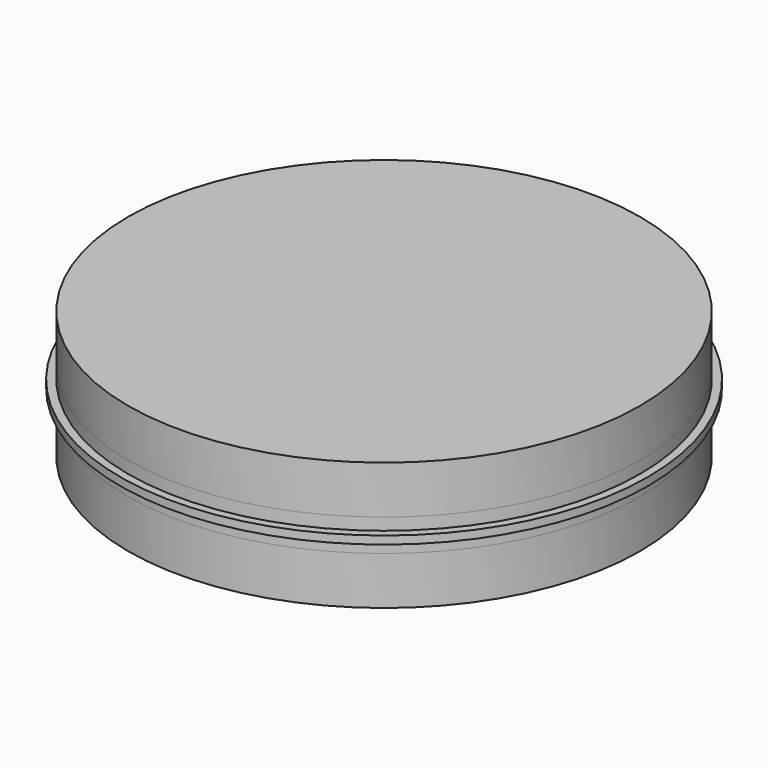
from build123d import *

# Parameters (mm, degrees)
F0_R      = 16
F1_DEPTH  = 1
F0_R_2    = 16.5
F2_DEPTH  = 0.25
F3_R      = 16
F4_DEPTH  = 3
F5_R      = 16
F6_DEPTH  = 3
F8_DEPTH  = 3.001
F9_DEPTH  = 2.75
F7_R      = 0.25
F10_DEPTH = 3.001
F11_DEPTH = 2.5
F7_R_2    = 1.095
F12_DEPTH = 3.001
F13_DEPTH = 1.8
F14_DEPTH = 2.75
F15_DEPTH = 3.001
F16_DEPTH = 2.5


with BuildPart() as f1:
    # F0 (on Top) → F1 (new body, symmetric)
    with BuildSketch(Plane.XY):
        Circle(F0_R)
    extrude(amount=F1_DEPTH, both=True)

    # F0 (on Top) → F2 (join, symmetric)
    with BuildSketch(Plane.XY):
        Circle(F0_R_2)
        Circle(F0_R, mode=Mode.SUBTRACT)
    extrude(amount=F2_DEPTH, both=True)


with BuildPart() as f4:
    # F3 (on face) → F4 (new body)
    with BuildSketch(Plane.XY.offset(1)):
        Circle(F3_R)
    extrude(amount=F4_DEPTH)


with BuildPart() as f6:
    # F5 (on face) → F6 (new body)
    with BuildSketch(Plane(origin=(0, 0, -1), x_dir=(1, 0, 0), z_dir=(0, 0, -1))):
        Circle(F5_R)
    extrude(amount=F6_DEPTH)

    # F7 (on face) → F8 (cut, through all)
    with BuildSketch(Plane.XY.offset(-1)):
        with BuildLine():
            ThreePointArc((1.6671203117, -4.3639705905), (1.906317634, -4.3471335232), (2.0213153258, -4.13671875))
            ThreePointArc((2.0213153258, -4.13671875), (1.9089714055, -3.9280304568), (1.6729088959, -3.9069010515))
            ThreePointArc((1.6729088959, -3.9069010515), (1.5213353723, -4.133552864), (1.6671203117, -4.3639705905))
        make_face()
    extrude(amount=-F8_DEPTH, mode=Mode.SUBTRACT)

    # F7 (on face) → F9 (cut)
    with BuildSketch(Plane.XY.offset(-1)):
        with BuildLine():
            ThreePointArc((1.6671203117, -4.3639705905), (1.5213353723, -4.133552864), (1.6729088959, -3.9069010515))
            ThreePointArc((1.6729088959, -3.9069010515), (1.3446888601, -4.0316636603), (1.0072900172, -4.12890625))
            ThreePointArc((1.0072900172, -4.12890625), (1.3423604072, -4.2319675509), (1.6671203117, -4.3639705905))
        make_face()
        with BuildLine():
            ThreePointArc((1.6729088959, -3.9069010515), (1.9089714055, -3.9280304568), (2.0213153258, -4.13671875))
            ThreePointArc((2.0213153258, -4.13671875), (1.906317634, -4.3471335232), (1.6671203117, -4.3639705905))
            ThreePointArc((1.6671203117, -4.3639705905), (3.2190154397, -5.6255654149), (3.96615671, -7.4807688839))
            ThreePointArc((3.96615671, -7.4807688839), (5.2912134448, -6.0368022302), (5.7713153258, -4.13671875))
            ThreePointArc((5.7713153258, -4.13671875), (5.3428308655, -2.3355311557), (4.1491769509, -0.9202340085))
            ThreePointArc((4.1491769509, -0.9202340085), (3.2717298037, -2.7126157287), (1.6729088959, -3.9069010515))
        make_face()
        with BuildLine():
            ThreePointArc((1.0072900172, -4.12890625), (1.3446888601, -4.0316636603), (1.6729088959, -3.9069010515))
            ThreePointArc((1.6729088959, -3.9069010515), (3.2717298037, -2.7126157287), (4.1491769509, -0.9202340085))
            ThreePointArc((4.1491769509, -0.9202340085), (0.196812814, -0.4596354167), (-2.1974498789, -3.6378172067))
            ThreePointArc((-2.1974498789, -3.6378172067), (-1.6210742002, -3.9286916954), (-1.0072900172, -4.12890625))
            ThreePointArc((-1.0072900172, -4.12890625), (0, -4), (1.0072900172, -4.12890625))
        make_face()
        with BuildLine():
            ThreePointArc((1.6729088959, -3.9069010515), (1.9089714055, -3.9280304568), (2.0213153258, -4.13671875))
            ThreePointArc((2.0213153258, -4.13671875), (1.906317634, -4.3471335232), (1.6671203117, -4.3639705905))
            ThreePointArc((1.6671203117, -4.3639705905), (3.2190154397, -5.6255654149), (3.96615671, -7.4807688839))
            ThreePointArc((3.96615671, -7.4807688839), (5.2912134448, -6.0368022302), (5.7713153258, -4.13671875))
            ThreePointArc((5.7713153258, -4.13671875), (5.3428308655, -2.3355311557), (4.1491769509, -0.9202340085))
            ThreePointArc((4.1491769509, -0.9202340085), (3.2717298037, -2.7126157287), (1.6729088959, -3.9069010515))
        make_face()
        with BuildLine():
            ThreePointArc((3.96615671, -7.4807688839), (3.2190154397, -5.6255654149), (1.6671203117, -4.3639705905))
            ThreePointArc((1.6671203117, -4.3639705905), (1.3423604072, -4.2319675509), (1.0072900172, -4.12890625))
            ThreePointArc((1.0072900172, -4.12890625), (0, -4.25), (-1.0072900172, -4.12890625))
            ThreePointArc((-1.0072900172, -4.12890625), (-1.6226075068, -4.3438893782), (-2.1948413842, -4.6559498661))
            ThreePointArc((-2.1948413842, -4.6559498661), (-1.4477001127, -6.5111533367), (0.1041950177, -7.7727481611))
            ThreePointArc((0.1041950177, -7.7727481611), (2.0728702265, -8.1253356333), (3.96615671, -7.4807688839))
        make_face()
        with BuildLine():
            ThreePointArc((-2.1948413842, -4.6559498661), (-1.6226075068, -4.3438893782), (-1.0072900172, -4.12890625))
            ThreePointArc((-1.0072900172, -4.12890625), (-1.6210742002, -3.9286916954), (-2.1974498789, -3.6378172067))
            ThreePointArc((-2.1974498789, -3.6378172067), (-2.2286715462, -4.146966869), (-2.1948413842, -4.6559498661))
        make_face()
        with BuildLine():
            ThreePointArc((-1.0072900172, -4.12890625), (0, -4.25), (1.0072900172, -4.12890625))
            ThreePointArc((1.0072900172, -4.12890625), (0, -4), (-1.0072900172, -4.12890625))
        make_face()
    extrude(amount=-F9_DEPTH, mode=Mode.SUBTRACT)

    # F7 (on face) → F10 (cut, through all)
    with BuildSketch(Plane.XY.offset(-1)):
        Circle(F7_R)
    extrude(amount=-F10_DEPTH, mode=Mode.SUBTRACT)

    # F7 (on face) → F11 (cut)
    with BuildSketch(Plane.XY.offset(-1)):
        with BuildLine():
            ThreePointArc((-2.1974498789, -3.6378172067), (0.196812814, -0.4596354167), (4.1491769509, -0.9202340085))
            ThreePointArc((4.1491769509, -0.9202340085), (4.2247190463, -0.46287037), (4.25, 0))
            ThreePointArc((4.25, 0), (3.1613643157, 2.8404710284), (0.4531643937, 4.225771176))
            ThreePointArc((0.4531643937, 4.225771176), (0.4557135544, 4.1128983799), (0.4565633388, 4))
            ThreePointArc((0.4565633388, 4), (-0.578227274, 0.1985440185), (-3.3970546824, -2.5539223725))
            ThreePointArc((-3.3970546824, -2.5539223725), (-2.8492678576, -3.1534382308), (-2.1974498789, -3.6378172067))
        make_face()
        Circle(F7_R, mode=Mode.SUBTRACT)
        with BuildLine():
            ThreePointArc((0.4531643937, 4.225771176), (-3.6956303469, 2.0987654321), (-3.3970546824, -2.5539223725))
            ThreePointArc((-3.3970546824, -2.5539223725), (-0.578227274, 0.1985440185), (0.4565633388, 4))
            ThreePointArc((0.4565633388, 4), (0.4557135544, 4.1128983799), (0.4531643937, 4.225771176))
        make_face()
    extrude(amount=-F11_DEPTH, mode=Mode.SUBTRACT)

    # F7 (on face) → F12 (cut, through all)
    with BuildSketch(Plane.XY.offset(-1)):
        with Locations((-7.0434366612, 4)):
            Circle(F7_R_2)
    extrude(amount=-F12_DEPTH, mode=Mode.SUBTRACT)

    # F7 (on face) → F13 (cut)
    with BuildSketch(Plane.XY.offset(-1)):
        with BuildLine():
            ThreePointArc((-1.4687815286, 9.0172921136), (-14.4414183132, 5.2328290543), (-3.3970546824, -2.5539223725))
            ThreePointArc((-3.3970546824, -2.5539223725), (-3.6956303469, 2.0987654321), (0.4531643937, 4.225771176))
            ThreePointArc((0.4531643937, 4.225771176), (0.3545449908, 5.2328290543), (0.1212637306, 6.2174463456))
            ThreePointArc((0.1212637306, 6.2174463456), (-1.5536200099, 7.1176920673), (-1.4687815286, 9.0172921136))
        make_face()
        with Locations((-7.0434366612, 4)):
            Circle(F7_R_2, mode=Mode.SUBTRACT)
        with BuildLine():
            ThreePointArc((1.7866735637, 8), (0.5329020994, 9.7053497517), (-1.4687815286, 9.0172921136))
            ThreePointArc((-1.4687815286, 9.0172921136), (-0.521736049, 7.7037037037), (0.1212637306, 6.2174463456))
            ThreePointArc((0.1212637306, 6.2174463456), (1.3055384186, 6.7802574613), (1.7866735637, 8))
        make_face()
    extrude(amount=-F13_DEPTH, mode=Mode.SUBTRACT)

    # F7 (on face) → F14 (cut, through all)
    with BuildSketch(Plane.XY.offset(-1)):
        with BuildLine():
            ThreePointArc((4, -8), (3.9915302103, -7.7398335532), (3.96615671, -7.4807688839))
            ThreePointArc((3.96615671, -7.4807688839), (2.0728702265, -8.1253356333), (0.1041950177, -7.7727481611))
            ThreePointArc((0.1041950177, -7.7727481611), (-1.4477001127, -6.5111533367), (-2.1948413842, -4.6559498661))
            ThreePointArc((-2.1948413842, -4.6559498661), (-1.9000834802, -11.519898119), (4, -8))
        make_face()
        with BuildLine():
            ThreePointArc((0.25, -8), (-0.2104147742, -8.1350023066), (0.1041950177, -7.7727481611))
            ThreePointArc((0.1041950177, -7.7727481611), (0.2104147742, -7.8649976934), (0.25, -8))
        make_face(mode=Mode.SUBTRACT)
        with BuildLine():
            ThreePointArc((3.96615671, -7.4807688839), (3.2190154397, -5.6255654149), (1.6671203117, -4.3639705905))
            ThreePointArc((1.6671203117, -4.3639705905), (1.3423604072, -4.2319675509), (1.0072900172, -4.12890625))
            ThreePointArc((1.0072900172, -4.12890625), (0, -4.25), (-1.0072900172, -4.12890625))
            ThreePointArc((-1.0072900172, -4.12890625), (-1.6226075068, -4.3438893782), (-2.1948413842, -4.6559498661))
            ThreePointArc((-2.1948413842, -4.6559498661), (-1.4477001127, -6.5111533367), (0.1041950177, -7.7727481611))
            ThreePointArc((0.1041950177, -7.7727481611), (2.0728702265, -8.1253356333), (3.96615671, -7.4807688839))
        make_face()
        with BuildLine():
            ThreePointArc((-1.0072900172, -4.12890625), (0, -4.25), (1.0072900172, -4.12890625))
            ThreePointArc((1.0072900172, -4.12890625), (0, -4), (-1.0072900172, -4.12890625))
        make_face()
    extrude(amount=-F14_DEPTH, mode=Mode.SUBTRACT)

    # F7 (on face) → F15 (cut, through all)
    with BuildSketch(Plane.XY.offset(-1)):
        with BuildLine():
            ThreePointArc((0.25, -8), (0.2104147742, -7.8649976934), (0.1041950177, -7.7727481611))
            ThreePointArc((0.1041950177, -7.7727481611), (-0.2104147742, -8.1350023066), (0.25, -8))
        make_face()
    extrude(amount=-F15_DEPTH, mode=Mode.SUBTRACT)

    # F7 (on face) → F16 (cut, through all)
    with BuildSketch(Plane.XY.offset(-1)):
        with BuildLine():
            ThreePointArc((0.1212637306, 6.2174463456), (-0.521736049, 7.7037037037), (-1.4687815286, 9.0172921136))
            ThreePointArc((-1.4687815286, 9.0172921136), (-1.5536200099, 7.1176920673), (0.1212637306, 6.2174463456))
        make_face()
        with BuildLine():
            ThreePointArc((1.7866735637, 8), (0.5329020994, 9.7053497517), (-1.4687815286, 9.0172921136))
            ThreePointArc((-1.4687815286, 9.0172921136), (-0.521736049, 7.7037037037), (0.1212637306, 6.2174463456))
            ThreePointArc((0.1212637306, 6.2174463456), (1.3055384186, 6.7802574613), (1.7866735637, 8))
        make_face()
    extrude(amount=-F16_DEPTH, mode=Mode.SUBTRACT)


solid = Compound([f1.part, f4.part, f6.part])
